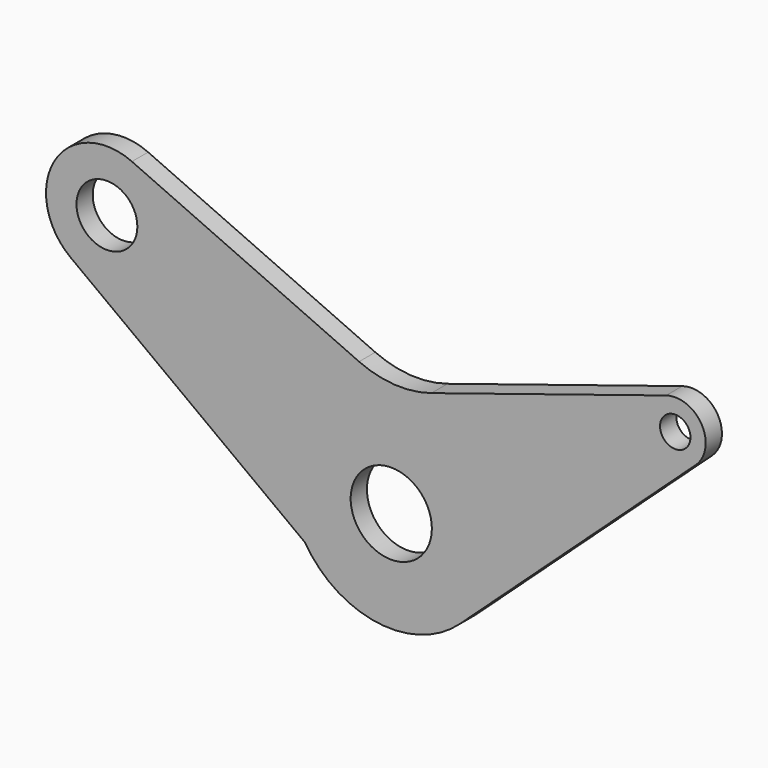
from build123d import *

# Parameters (mm, degrees)
F0_R     = 2
F0_R_2   = 1.5
F0_R_3   = 0.75
F1_DEPTH = 0.5


with BuildPart() as f1:
    # F0 (on Front) → F1 (new body, symmetric)
    with BuildSketch(Plane.XZ):
        with BuildLine():
            Line((-24.761863, 14.850086), (-35.955657, 19.889062))
            ThreePointArc((-35.955657, 19.889062), (-39.773049, 18.674288), (-38.979378, 14.74768))
            Line((-38.979378, 14.74768), (-27.427554, 6.141753))
            ThreePointArc((-27.427554, 6.141753), (-23.858251, 3.820055), (-19.794239, 5.090492))
            Line((-19.794239, 5.090492), (-8.168313, 15.766349))
            ThreePointArc((-8.168313, 15.766349), (-7.88459, 17.622506), (-9.635309, 18.301331))
            Line((-9.635309, 18.301331), (-21.201303, 14.642294))
            ThreePointArc((-21.201303, 14.642294), (-23.000741, 14.417917), (-24.761863, 14.850086))
        make_face()
        with Locations((-23.17609, 8.773302)):
            Circle(F0_R, mode=Mode.SUBTRACT)
        with Locations((-37.18711, 17.153459)):
            Circle(F0_R_2, mode=Mode.SUBTRACT)
        with Locations((-9.182868, 16.871192)):
            Circle(F0_R_3, mode=Mode.SUBTRACT)
    extrude(amount=F1_DEPTH, both=True)


solid = f1.part
